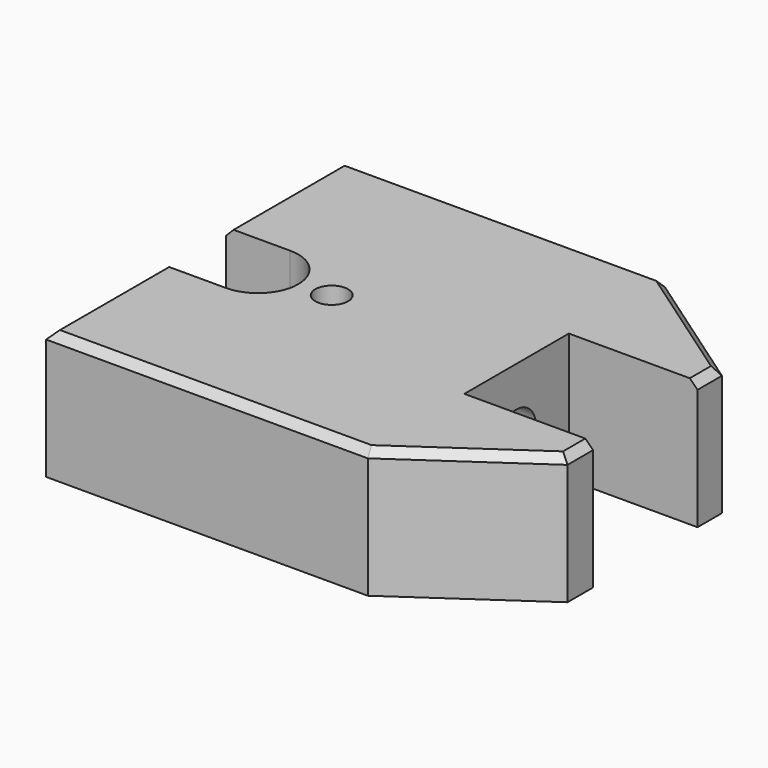
from build123d import *

# Parameters (mm, degrees)
F1_DEPTH = 25.4
F2_SIZE  = 1.524
F3_R     = 4.7625
F4_DEPTH = 19.05
F5_R     = 3.2385
F6_DEPTH = 14.2748


with BuildPart() as f1:
    # F0 (on Top) → F1 (new body)
    with BuildSketch(Plane.XY):
        with BuildLine():
            Line((-39.3470732987, 91.0471790222), (-102.8470732987, 91.0471790222))
            Line((-102.8470732987, 91.0471790222), (-102.8470732987, 62.1337296899))
            Line((-102.8470732987, 62.1337296899), (-90.1470732987, 62.1337296899))
            ThreePointArc((-90.1470732987, 62.1337296899), (-82.1968732987, 54.1835296899), (-90.1470732987, 46.2333296899))
            Line((-90.1470732987, 46.2333296899), (-102.8470732987, 46.2333296899))
            Line((-102.8470732987, 46.2333296899), (-102.8470732987, 17.7681790222))
            Line((-102.8470732987, 17.7681790222), (-39.3470732987, 17.7681790222))
            Line((-39.3470732987, 17.7681790222), (-13.9470732987, 35.2941790222))
            Line((-13.9470732987, 35.2941790222), (-13.9470732987, 41.5933790222))
            Line((-13.9470732987, 41.5933790222), (-39.3470732987, 41.5933790222))
            Line((-39.3470732987, 41.5933790222), (-39.3470732987, 67.3743790222))
            Line((-39.3470732987, 67.3743790222), (-13.9470732987, 67.3743790222))
            Line((-13.9470732987, 67.3743790222), (-13.9470732987, 73.3941790222))
            Line((-13.9470732987, 73.3941790222), (-39.3470732987, 91.0471790222))
        make_face()
    extrude(amount=F1_DEPTH)

    # F2
    f2_edges = [f1.edges().sort_by_distance(p)[0] for p in [
        (-71.097073, 17.768179, 25.4),
        (-26.647073, 26.531179, 25.4),
        (-13.947073, 38.443779, 25.4),
        (-13.947073, 70.384279, 25.4),
        (-26.647073, 82.220679, 25.4),
        (-71.097073, 91.047179, 25.4),
        (-102.847073, 32.000754, 25.4),
        (-102.847073, 76.590454, 25.4),
    ]]
    chamfer(f2_edges, length=F2_SIZE)

    # F3 (on face) → F4 (cut)
    with BuildSketch(Plane.YZ.offset(-39.3470732987)):
        with Locations((54.4838790222, 12.7)):
            Circle(F3_R)
    extrude(amount=-F4_DEPTH, mode=Mode.SUBTRACT)

    # F5 (on face) → F6 (cut)
    with BuildSketch(Plane.XY.offset(25.4)):
        with Locations((-75.8722732987, 54.5219790222)):
            Circle(F5_R)
    extrude(amount=-F6_DEPTH, mode=Mode.SUBTRACT)


solid = f1.part
